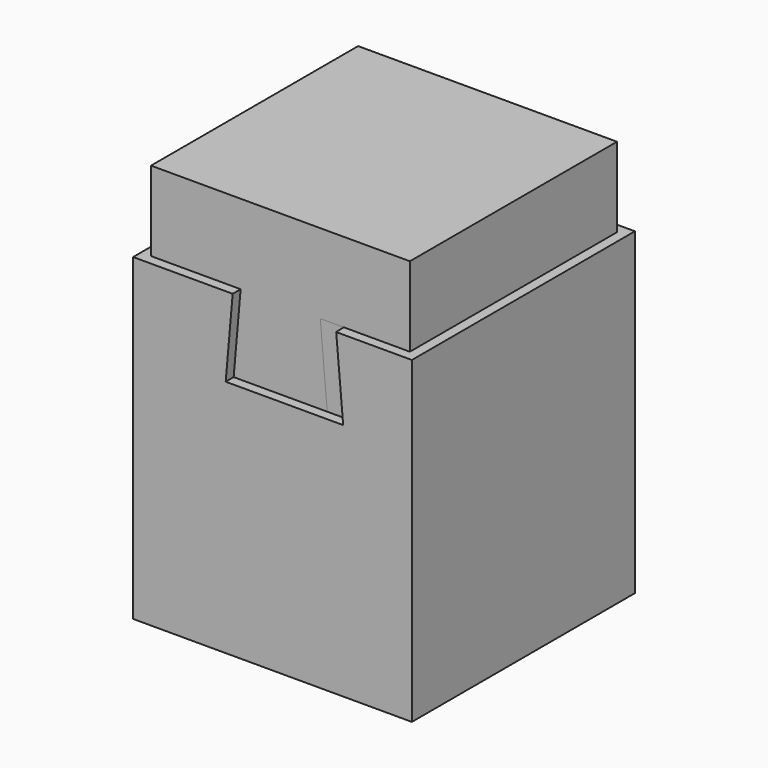
from build123d import *

# Parameters (mm, degrees)
F0_W      = 88.9
F0_H      = 88.9
F1_DEPTH  = 101.6
F3_DEPTH  = 50.8
F8_DEPTH  = 101.6
F10_DEPTH = 41.275
F12_DEPTH = 41.275
F14_DEPTH = 101.6


with BuildPart() as f1:
    # F0 (on Top) → F1 (new body)
    with BuildSketch(Plane.XY):
        Rectangle(F0_W, F0_H)
    extrude(amount=-F1_DEPTH)

    # F2 (on Front) → F3 (cut, symmetric)
    with BuildSketch(Plane.XZ):
        Polygon((10.16, 0), (-12.7, 0), (-14.9222120536, -25.4), (10.16, -25.4), align=None)
    extrude(amount=F3_DEPTH, both=True, mode=Mode.SUBTRACT)

    # F7 (on 3pt) → F8 (cut, symmetric)
    with BuildSketch(Plane(origin=(-2.1773690773, 43.5473815461, 0), x_dir=(-0.9987523389, -0.0499376169, 0), z_dir=(-0.0499376169, 0.9987523389, 0))):
        Polygon((-18.0749204528, 0), (-20.2971325064, -25.4), (-0.2949204528, -25.4), (-0.2949204528, 0), align=None)
    extrude(amount=F8_DEPTH, both=True, mode=Mode.SUBTRACT)


with BuildPart() as f10:
    # F9 (on Front) → F10 (new body, symmetric)
    with BuildSketch(Plane.XZ):
        Polygon((41.275, 0), (41.275, 25.4), (-41.275, 25.4), (-41.275, 0), (-12.7, 0), (-14.9222120536, -25.4), (14.9222120536, -25.4), (12.7, 0), align=None)
    extrude(amount=F10_DEPTH, both=True)


with BuildPart() as f12:
    # F11 (on Front) → F12 (new body, symmetric)
    with BuildSketch(Plane.XZ):
        Polygon((25.0822120536, 0), (12.7, 0), (14.9222120536, -25.4), (25.0822120536, -25.4), align=None)
    extrude(amount=F12_DEPTH, both=True)

    # F13 (on 3pt) → F14 (cut, symmetric)
    with BuildSketch(Plane(origin=(-2.1773690773, 43.5473815461, 0), x_dir=(-0.9987523389, -0.0499376169, 0), z_dir=(-0.0499376169, 0.9987523389, 0))):
        Polygon((-20.2971325064, -25.4), (-17.8526992475, 2.54), (-32.9971325064, 2.54), (-32.9971325064, -25.4), align=None)
    extrude(amount=F14_DEPTH, both=True, mode=Mode.SUBTRACT)


solid = Compound([f1.part, f10.part, f12.part])
